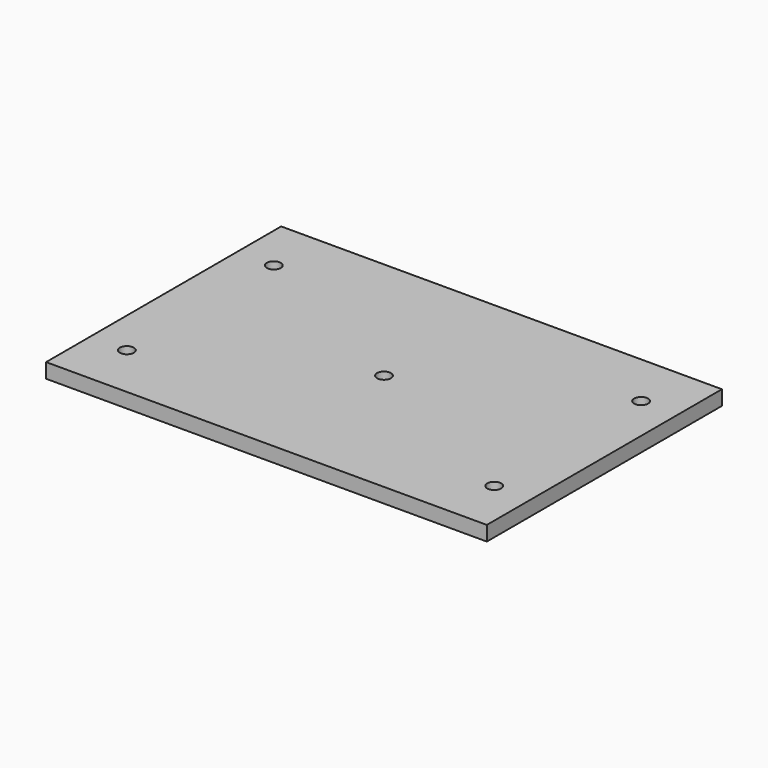
from build123d import *

# Parameters (mm, degrees)
F0_W     = 600
F0_H     = 400
F1_DEPTH = 20
F2_R     = 6.25
F3_DEPTH = 25
F4_R     = 9.5
F5_DEPTH = 13


with BuildPart() as f1:
    # F0 (on Top) → F1 (new body)
    with BuildSketch(Plane.XY):
        Rectangle(F0_W, F0_H)
    extrude(amount=F1_DEPTH)

    # F2 (on face) → F3 (cut)
    with BuildSketch(Plane.XY.offset(20)):
        with Locations((-250, 125)):
            Circle(F2_R)
        with Locations((-250, -125)):
            Circle(F2_R)
        with Locations((250, 125)):
            Circle(F2_R)
        with Locations((250, -125)):
            Circle(F2_R)
        Circle(F2_R)
    extrude(amount=-F3_DEPTH, mode=Mode.SUBTRACT)

    # F4 (on face) → F5 (cut)
    with BuildSketch(Plane.XY.offset(20)):
        with Locations((250, 125)):
            Circle(F4_R)
        with Locations((250, -125)):
            Circle(F4_R)
        Circle(F4_R)
        with Locations((-250, 125)):
            Circle(F4_R)
        with Locations((-250, -125)):
            Circle(F4_R)
    extrude(amount=-F5_DEPTH, mode=Mode.SUBTRACT)


solid = f1.part
